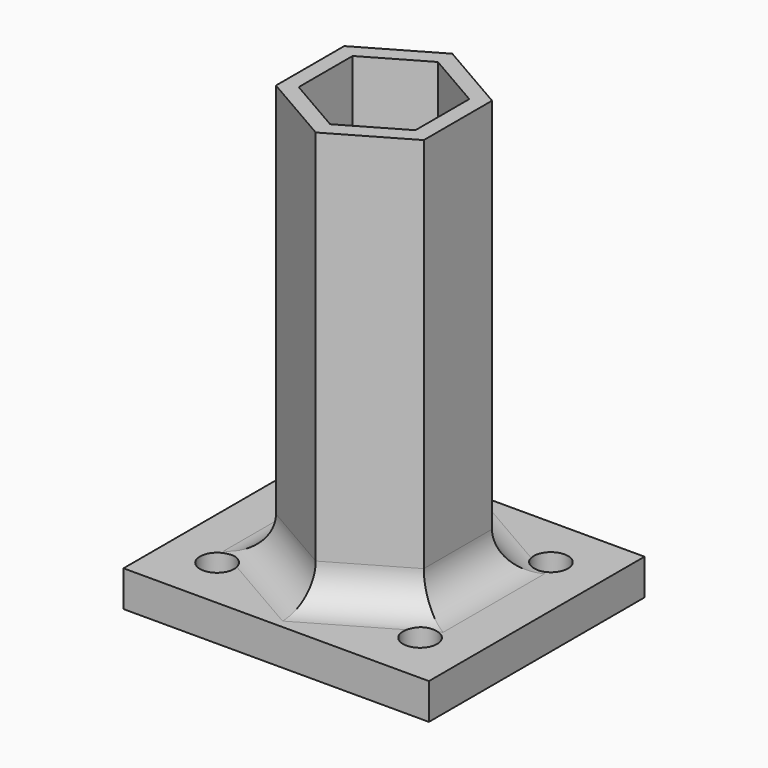
from build123d import *

# Parameters (mm, degrees)
F0_W     = 43.18
F0_H     = 5.08
F1_DEPTH = 19.05
F3_DEPTH = 58.42
F4_R     = 5.08
F5_R     = 2.413
F6_DEPTH = 25.4


with BuildPart() as f1:
    # F0 (on Front) → F1 (new body, symmetric)
    with BuildSketch(Plane.XZ):
        with Locations((0, -13.789871)):
            Rectangle(F0_W, F0_H)
    extrude(amount=F1_DEPTH, both=True)

    # F2 (on face) → F3 (join)
    with BuildSketch(Plane.XY.offset(-11.249871)):
        Polygon((10.448596, 6.0325), (0, 12.065), (-10.448596, 6.0325), (-10.448596, -6.0325), (0, -12.065), (10.448596, -6.0325), align=None)
        Polygon((-8.248892, 4.7625), (0, 9.525), (8.248892, 4.7625), (8.248892, -4.7625), (0, -9.525), (-8.248892, -4.7625), align=None, mode=Mode.SUBTRACT)
    extrude(amount=F3_DEPTH)

    # F4
    f4_edges = [f1.edges().sort_by_distance(p)[0] for p in [
        (10.448596, 0, -11.249871),
        (5.224298, -9.04875, -11.249871),
        (-5.224298, -9.04875, -11.249871),
        (5.224298, 9.04875, -11.249871),
        (-5.224298, 9.04875, -11.249871),
        (-10.448596, 0, -11.249871),
    ]]
    fillet(f4_edges, radius=F4_R)

    # F5 (on face) → F6 (cut)
    with BuildSketch(Plane(origin=(0, 0, -16.329871), x_dir=(1, 0, 0), z_dir=(0, 0, -1))):
        with Locations((-14.351, 11.557)):
            Circle(F5_R)
        with Locations((14.351, 11.557)):
            Circle(F5_R)
        with Locations((-14.351, -11.557)):
            Circle(F5_R)
        with Locations((14.351, -11.557)):
            Circle(F5_R)
    extrude(amount=-F6_DEPTH, mode=Mode.SUBTRACT)


solid = f1.part
